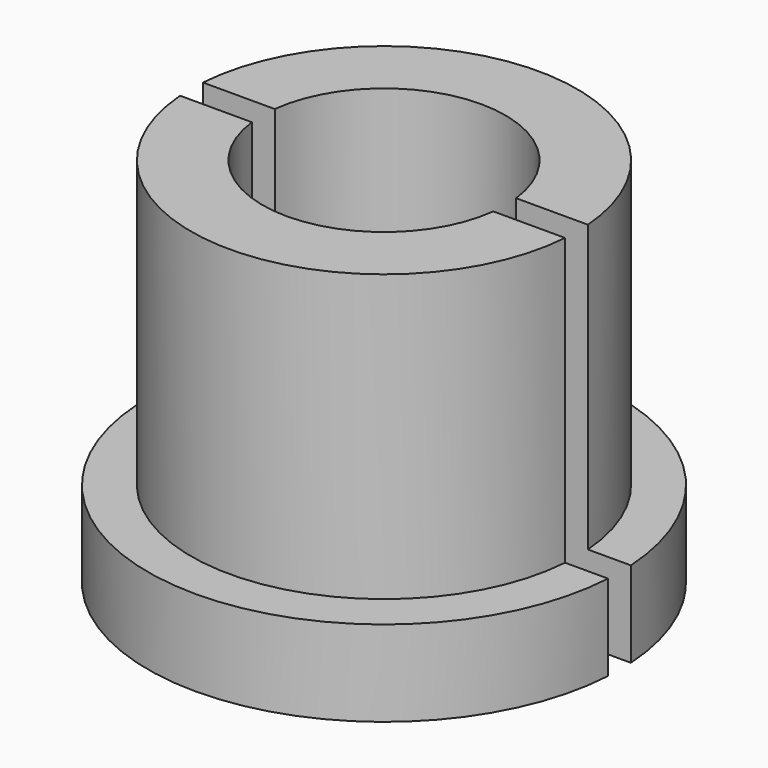
from build123d import *

# Parameters (mm, degrees)
F2_W     = 1
F2_H     = 13
F3_DEPTH = 25.4
F4_DEPTH = 25.4


with BuildPart() as f1:
    # F0 (on Front) → F1 (revolve)
    with BuildSketch(Plane.XZ):
        Polygon((-8.25, 3), (-8.25, 0), (-4.25, 0), (-4.25, 13), (-6.75, 13), (-6.75, 3), align=None)
    revolve(axis=Axis((0, 0, 6.5), (0, 0, -1)))

    # F2 (on Right) → F3 (cut)
    with BuildSketch(Plane.YZ):
        with Locations((0, 6.5)):
            Rectangle(F2_W, F2_H)
    extrude(amount=-F3_DEPTH, mode=Mode.SUBTRACT)

    # F2 (on Right) → F4 (cut)
    with BuildSketch(Plane.YZ):
        with Locations((0, 6.5)):
            Rectangle(F2_W, F2_H)
    extrude(amount=F4_DEPTH, mode=Mode.SUBTRACT)


solid = f1.part
